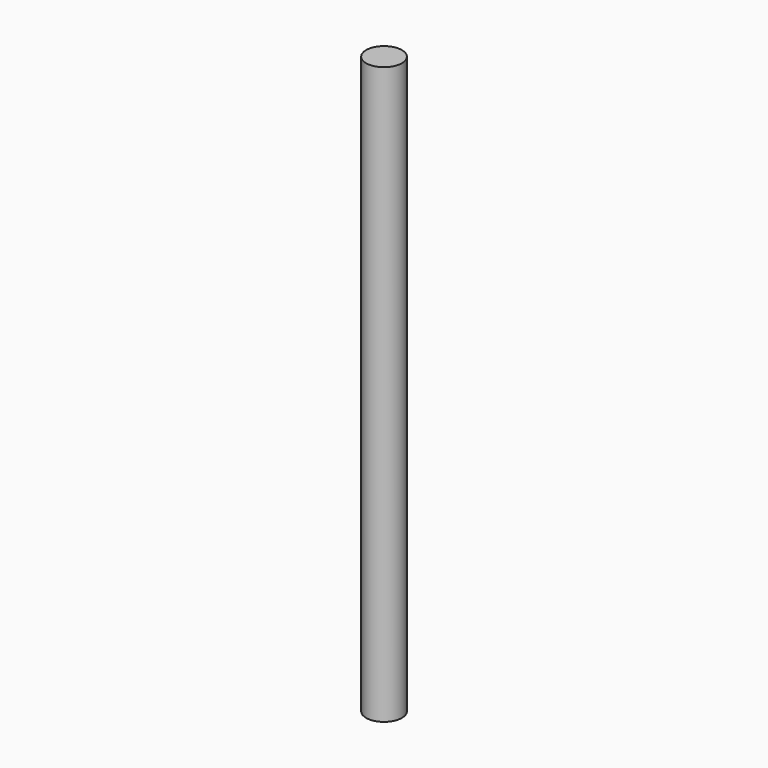
from build123d import *

# Parameters (mm, degrees)
SKETCH_R  = 4
PAD_DEPTH = 129


with BuildPart() as part:
    # Sketch → Pad (new body)
    with BuildSketch(Plane.XY):
        Circle(SKETCH_R)
    extrude(amount=PAD_DEPTH)


solid = part.part
